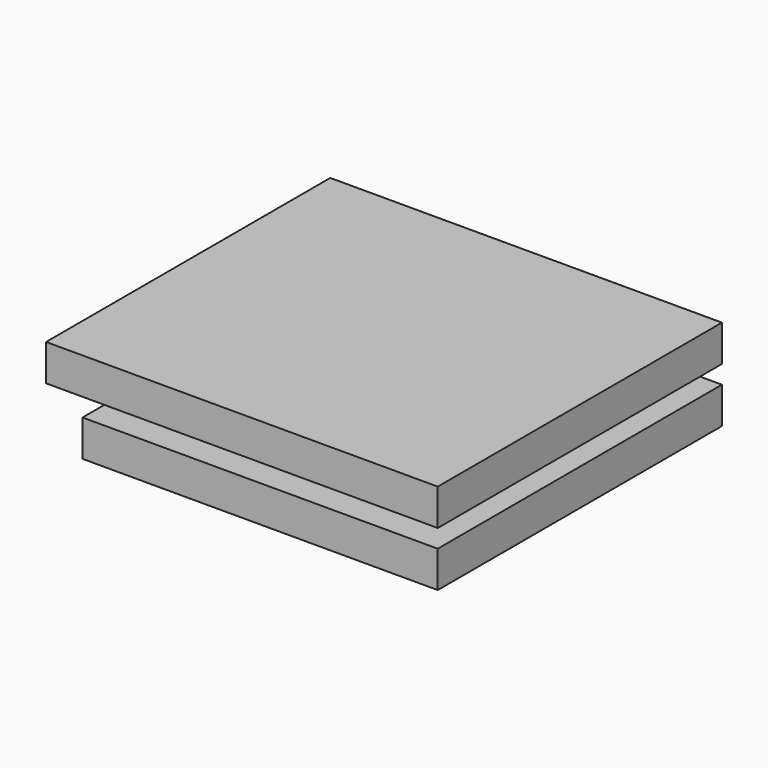
from build123d import *

# Parameters (mm, degrees)
F0_W     = 17.5
F0_H     = 15.5
F1_DEPTH = 2
F2_DEPTH = 3
F3_DEPTH = 1


with BuildPart() as f1:
    # F0 (on Top) → F1 (new body)
    with BuildSketch(Plane.XY):
        Polygon((-8.75, -7.75), (-8.75, -9.75), (10.75, -9.75), (10.75, 9.75), (-8.75, 9.75), (-8.75, 7.75), (8.75, 7.75), (8.75, -7.75), align=None)
        Rectangle(F0_W, F0_H)
        Polygon((-10.75, 9.75), (-10.75, -9.75), (-8.75, -9.75), (-8.75, -7.75), (-8.75, 7.75), (-8.75, 9.75), align=None)
    extrude(amount=F1_DEPTH)

    # F0 (on Top) → F2 (join)
    with BuildSketch(Plane.XY):
        Rectangle(F0_W, F0_H)
        Polygon((-8.75, -7.75), (-8.75, -9.75), (10.75, -9.75), (10.75, 9.75), (-8.75, 9.75), (-8.75, 7.75), (8.75, 7.75), (8.75, -7.75), align=None)
    extrude(amount=-F2_DEPTH)

    # F0 (on Top) → F3 (cut)
    with BuildSketch(Plane.XY):
        Polygon((-8.75, -7.75), (-8.75, -9.75), (10.75, -9.75), (10.75, 9.75), (-8.75, 9.75), (-8.75, 7.75), (8.75, 7.75), (8.75, -7.75), align=None)
    extrude(amount=-F3_DEPTH, mode=Mode.SUBTRACT)


solid = f1.part
